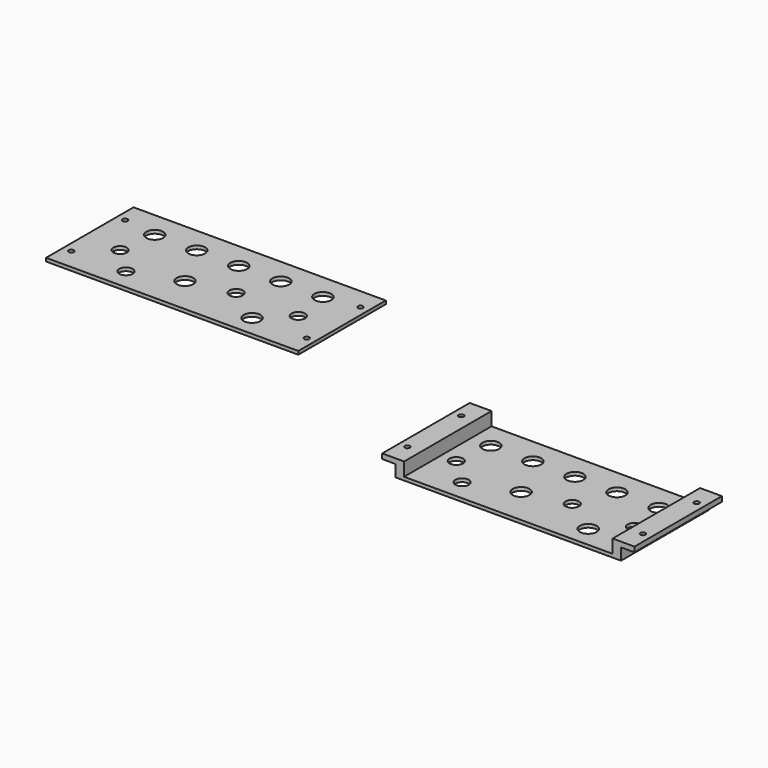
from build123d import *

# Parameters (mm, degrees)
F0_W     = 150
F0_H     = 65
F0_R     = 1.5
F0_R_2   = 4
F0_R_3   = 5
F1_DEPTH = 10
F2_W     = 150
F2_H     = 65
F2_R     = 1.5
F2_R_2   = 4
F2_R_3   = 5
F3_DEPTH = 2
F4_W     = 8
F4_H     = 7
F5_DEPTH = 70
F6_W     = 124
F6_H     = 65
F7_DEPTH = 8


with BuildPart() as f1:
    # F0 (on Top) → F1 (new body)
    with BuildSketch(Plane.XY):
        Rectangle(F0_W, F0_H)
        with Locations((-70, -20)):
            Circle(F0_R, mode=Mode.SUBTRACT)
        with Locations((-37.5, -20)):
            Circle(F0_R_2, mode=Mode.SUBTRACT)
        with Locations((-53, -5)):
            Circle(F0_R_2, mode=Mode.SUBTRACT)
        with Locations((-10, -10.5)):
            Circle(F0_R_3, mode=Mode.SUBTRACT)
        with Locations((37.5, -20)):
            Circle(F0_R_3, mode=Mode.SUBTRACT)
        with Locations((70, -20)):
            Circle(F0_R, mode=Mode.SUBTRACT)
        with Locations((16, -5)):
            Circle(F0_R_2, mode=Mode.SUBTRACT)
        with Locations((53, -5)):
            Circle(F0_R_2, mode=Mode.SUBTRACT)
        with Locations((-70, 20)):
            Circle(F0_R, mode=Mode.SUBTRACT)
        with Locations((-50, 17)):
            Circle(F0_R_3, mode=Mode.SUBTRACT)
        with Locations((-25, 17)):
            Circle(F0_R_3, mode=Mode.SUBTRACT)
        with Locations((0, 17)):
            Circle(F0_R_3, mode=Mode.SUBTRACT)
        with Locations((25, 17)):
            Circle(F0_R_3, mode=Mode.SUBTRACT)
        with Locations((50, 17)):
            Circle(F0_R_3, mode=Mode.SUBTRACT)
        with Locations((70, 20)):
            Circle(F0_R, mode=Mode.SUBTRACT)
    extrude(amount=F1_DEPTH)

    # F4 (on face) → F5 (cut)
    with BuildSketch(Plane.XZ.offset(32.5)):
        with Locations((-71, 3.5)):
            Rectangle(F4_W, F4_H)
        with Locations((71, 3.5)):
            Rectangle(F4_W, F4_H)
    extrude(amount=-F5_DEPTH, mode=Mode.SUBTRACT)

    # F6 (on face) → F7 (cut)
    with BuildSketch(Plane.XY.offset(10)):
        Rectangle(F6_W, F6_H)
    extrude(amount=-F7_DEPTH, mode=Mode.SUBTRACT)


with BuildPart() as f3:
    # F2 (on Top) → F3 (new body)
    with BuildSketch(Plane.XY):
        with Locations((-254.403707, 68.122511)):
            Rectangle(F2_W, F2_H)
        with Locations((-324.403707, 48.122511)):
            Circle(F2_R, mode=Mode.SUBTRACT)
        with Locations((-291.903707, 48.122511)):
            Circle(F2_R_2, mode=Mode.SUBTRACT)
        with Locations((-307.403707, 63.122511)):
            Circle(F2_R_2, mode=Mode.SUBTRACT)
        with Locations((-264.403707, 57.622511)):
            Circle(F2_R_3, mode=Mode.SUBTRACT)
        with Locations((-216.903707, 48.122511)):
            Circle(F2_R_3, mode=Mode.SUBTRACT)
        with Locations((-184.403707, 48.122511)):
            Circle(F2_R, mode=Mode.SUBTRACT)
        with Locations((-238.403707, 63.122511)):
            Circle(F2_R_2, mode=Mode.SUBTRACT)
        with Locations((-201.403707, 63.122511)):
            Circle(F2_R_2, mode=Mode.SUBTRACT)
        with Locations((-324.403707, 88.122511)):
            Circle(F2_R, mode=Mode.SUBTRACT)
        with Locations((-304.403707, 85.122511)):
            Circle(F2_R_3, mode=Mode.SUBTRACT)
        with Locations((-279.403707, 85.122511)):
            Circle(F2_R_3, mode=Mode.SUBTRACT)
        with Locations((-254.403707, 85.122511)):
            Circle(F2_R_3, mode=Mode.SUBTRACT)
        with Locations((-229.403707, 85.122511)):
            Circle(F2_R_3, mode=Mode.SUBTRACT)
        with Locations((-204.403707, 85.122511)):
            Circle(F2_R_3, mode=Mode.SUBTRACT)
        with Locations((-184.403707, 88.122511)):
            Circle(F2_R, mode=Mode.SUBTRACT)
    extrude(amount=F3_DEPTH)


solid = Compound([f1.part, f3.part])
